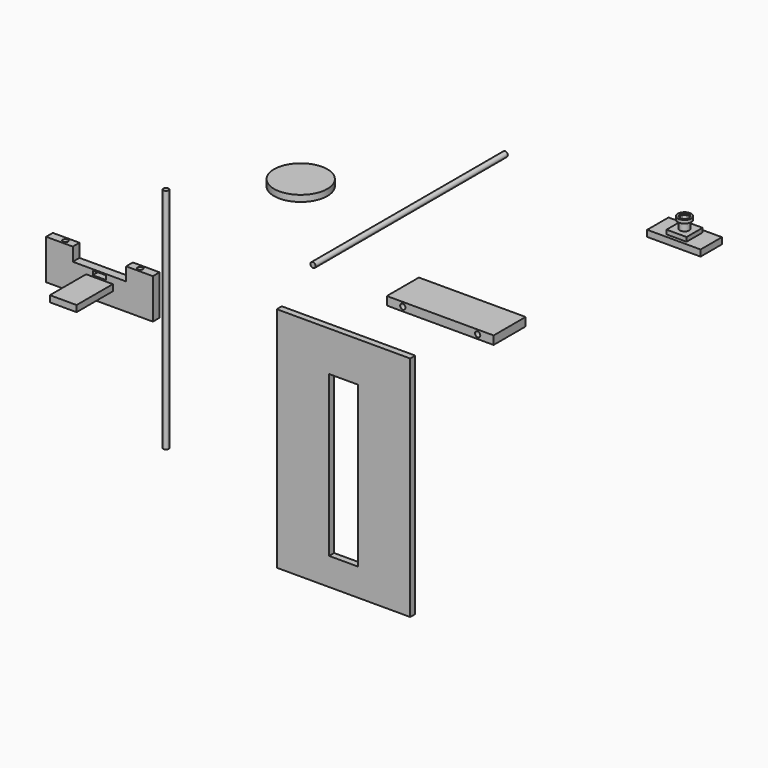
from build123d import *

# Parameters (mm, degrees)
F1_R      = 2.5
F2_DEPTH  = 228.6
F0_W      = 101.6
F0_H      = 8
F0_R      = 2.5
F3_DEPTH  = 38.1
F4_W      = 101.6
F4_H      = 8
F4_R      = 2.5
F5_DEPTH  = 38.1
F6_R      = 2.5
F7_DEPTH  = 216.6112
F8_W      = 127
F8_H      = 216.6112
F8_W_2    = 27.4
F8_H_2    = 152.4
F9_DEPTH  = 6
F10_R     = 25.4
F11_DEPTH = 6
F12_W     = 50.8
F12_H     = 25.4
F12_W_2   = 19.05
F12_H_2   = 19.05
F12_R     = 4.445
F13_DEPTH = 6
F14_DEPTH = 10
F15_DEPTH = 19.05
F16_R     = 6.35
F16_R_2   = 4.445
F17_DEPTH = 1.5
F18_W     = 50.8
F18_H     = 12.7
F18_W_2   = 12.7
F18_H_2   = 4
F19_DEPTH = 8
F18_W_3   = 25.4
F18_H_3   = 6
F20_DEPTH = 43.1


with BuildPart() as f2:
    # F1 (on Front) → F2 (new body)
    with BuildSketch(Plane.XZ):
        with Locations((-60.868055, 33.384308)):
            Circle(F1_R)
    extrude(amount=-F2_DEPTH)


with BuildPart() as f3:
    # F0 (on Front) → F3 (new body)
    with BuildSketch(Plane.XZ):
        with Locations((60.187948, 26.279371)):
            Rectangle(F0_W, F0_H)
        with Locations((24.587948, 26.279371)):
            Circle(F0_R, mode=Mode.SUBTRACT)
        with Locations((95.787948, 26.279371)):
            Circle(F0_R, mode=Mode.SUBTRACT)
    extrude(amount=-F3_DEPTH)


with BuildPart() as f5:
    # F4 (on Top) → F5 (new body)
    with BuildSketch(Plane.XY):
        with Locations((-233.470182, -34.29946)):
            Rectangle(F4_W, F4_H)
        with Locations((-269.070182, -34.29946)):
            Circle(F4_R, mode=Mode.SUBTRACT)
        with Locations((-197.870182, -34.29946)):
            Circle(F4_R, mode=Mode.SUBTRACT)
    extrude(amount=-F5_DEPTH)

    # F18 (on face) → F19 (cut)
    with BuildSketch(Plane.XZ.offset(38.29946)):
        with Locations((-233.470182, -6.35)):
            Rectangle(F18_W, F18_H)
        with Locations((-233.470182, -15.739394)):
            Rectangle(F18_W_2, F18_H_2)
    extrude(amount=-F19_DEPTH, mode=Mode.SUBTRACT)

    # F18 (on face) → F20 (join)
    with BuildSketch(Plane.XZ.offset(38.29946)):
        with Locations((-233.470182, -22.05)):
            Rectangle(F18_W_3, F18_H_3)
    extrude(amount=F20_DEPTH)


with BuildPart() as f7:
    # F6 (on Top) → F7 (new body)
    with BuildSketch(Plane.XY):
        with Locations((-262.249321, 76.838002)):
            Circle(F6_R)
    extrude(amount=-F7_DEPTH)


with BuildPart() as f9:
    # F8 (on Front) → F9 (new body)
    with BuildSketch(Plane.XZ):
        with Locations((-27.088191, -119.149464)):
            Rectangle(F8_W, F8_H)
        with Locations((-27.088191, -125.143864)):
            Rectangle(F8_W_2, F8_H_2, mode=Mode.SUBTRACT)
    extrude(amount=F9_DEPTH)


with BuildPart() as f11:
    # F10 (on Top) → F11 (new body)
    with BuildSketch(Plane.XY):
        with Locations((-187.308237, 143.390164)):
            Circle(F10_R)
    extrude(amount=F11_DEPTH)


with BuildPart() as f13:
    # F12 (on Top) → F13 (new body)
    with BuildSketch(Plane.XY):
        with Locations((90.150028, 253.192764)):
            Rectangle(F12_W, F12_H)
        with Locations((90.150028, 253.192764)):
            Rectangle(F12_W_2, F12_H_2, mode=Mode.SUBTRACT)
        with Locations((90.150028, 253.192764)):
            Rectangle(F12_W_2, F12_H_2)
        with Locations((90.150028, 253.192764)):
            Circle(F12_R, mode=Mode.SUBTRACT)
        with Locations((90.150028, 253.192764)):
            Circle(F12_R)
    extrude(amount=F13_DEPTH)

    # F12 (on Top) → F14 (join)
    with BuildSketch(Plane.XY):
        with Locations((90.150028, 253.192764)):
            Rectangle(F12_W_2, F12_H_2)
        with Locations((90.150028, 253.192764)):
            Circle(F12_R, mode=Mode.SUBTRACT)
    extrude(amount=F14_DEPTH)

    # F12 (on Top) → F15 (join)
    with BuildSketch(Plane.XY):
        with Locations((90.150028, 253.192764)):
            Circle(F12_R)
    extrude(amount=F15_DEPTH)

    # F16 (on face) → F17 (join, symmetric)
    with BuildSketch(Plane.XY.offset(19.05)):
        with Locations((90.150028, 253.192764)):
            Circle(F16_R)
        with Locations((90.150028, 253.192764)):
            Circle(F16_R_2, mode=Mode.SUBTRACT)
    extrude(amount=F17_DEPTH, both=True)


solid = Compound([f2.part, f3.part, f5.part, f7.part, f9.part, f11.part, f13.part])
